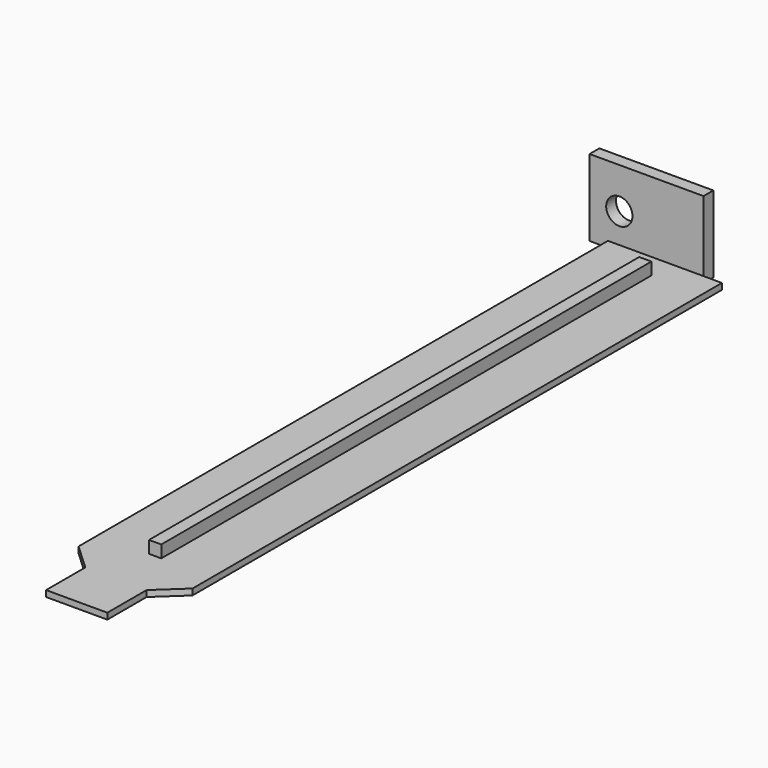
from build123d import *

# Parameters (mm, degrees)
PAD_DEPTH    = 0.5
SKETCH001_W  = 2
SKETCH001_H  = 100
PAD001_DEPTH = 2
SKETCH002_W  = 18.6
SKETCH002_H  = 12.5
SKETCH002_R  = 2.145
PAD002_DEPTH = 2


with BuildPart() as part:
    # Sketch → Pad (new body, symmetric)
    with BuildSketch(Plane.XY):
        Polygon((-12.731854, 54), (5.868146, 54), (5.868146, -53.999996), (1.568146, -57.999992), (1.568146, -66), (-8.431854, -66), (-8.431854, -57.999992), (-12.731854, -53.999996), align=None)
    extrude(amount=PAD_DEPTH, both=True)

    # Sketch001 (on Face10 of Pad) → Pad001 (join)
    with BuildSketch(Plane.XY.offset(0.5)):
        with Locations((-3.431854, 0)):
            Rectangle(SKETCH001_W, SKETCH001_H)
    extrude(amount=PAD001_DEPTH)

    # Sketch002 (on Face1 of Pad001) → Pad002 (join)
    with BuildSketch(Plane(origin=(0, 54, 0), x_dir=(-1, 0, 0), z_dir=(0, 1, 0))):
        with Locations((6.431854, 5.75)):
            Rectangle(SKETCH002_W, SKETCH002_H)
        with Locations((10.876855, 5.355)):
            Circle(SKETCH002_R, mode=Mode.SUBTRACT)
    extrude(amount=PAD002_DEPTH)


solid = part.part
